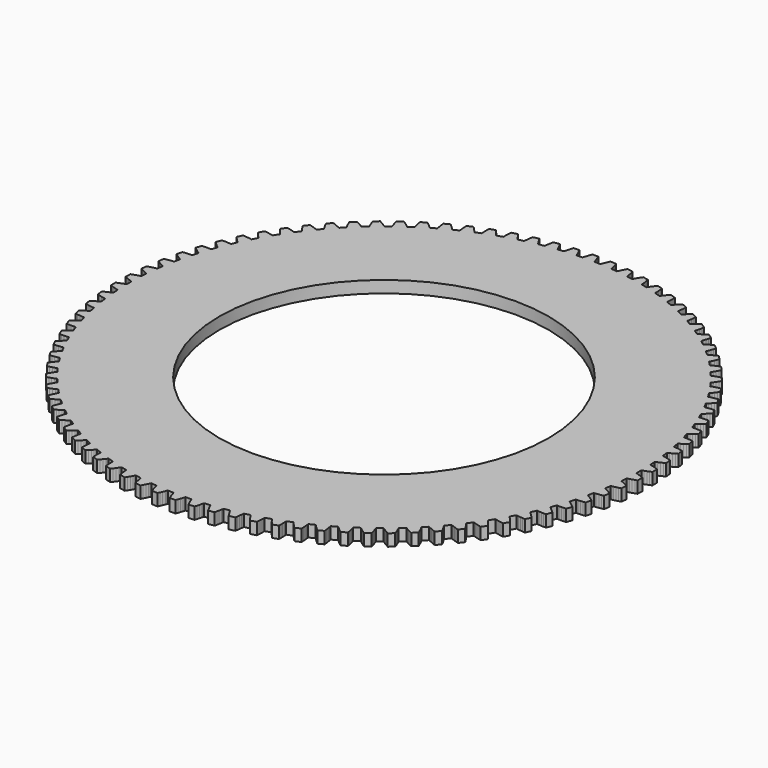
from build123d import *

# Parameters (mm, degrees)
F0_R     = 125
F1_DEPTH = 9


with BuildPart() as f1:
    # F0 (on Top) → F1 (new body)
    with BuildSketch(Plane.XY):
        Polygon((83.623727, 84.245683), (83.630127, 88.804583), (84.041127, 88.937583), (84.452027, 89.073883), (85.273427, 89.356283), (86.914527, 89.958683), (88.553027, 90.609183), (90.188527, 91.305483), (90.041027, 95.706583), (88.362527, 96.291783), (86.684127, 96.831083), (85.006427, 97.322283), (84.167927, 97.548983), (83.748827, 97.657483), (83.329827, 97.762583), (83.018127, 102.310883), (83.418927, 102.472183), (83.819327, 102.636783), (84.619027, 102.975783), (86.214027, 103.691283), (87.803127, 104.454383), (89.386127, 105.263083), (88.931927, 109.643283), (87.216727, 110.109983), (85.504827, 110.530783), (83.796927, 110.903783), (82.944627, 111.071483), (82.519027, 111.150483), (82.093727, 111.226083), (81.465527, 115.741483), (81.854027, 115.930383), (82.242027, 116.122583), (83.016127, 116.516483), (84.557327, 117.341483), (86.089327, 118.213683), (87.612027, 119.130783), (86.853427, 123.468583), (85.109827, 123.814483), (83.372727, 124.114883), (81.643027, 124.367783), (80.781127, 124.475683), (80.351027, 124.524783), (79.921427, 124.570583), (78.979827, 129.031183), (79.354227, 129.246683), (79.727827, 129.465383), (80.472527, 129.912383), (81.952527, 130.842883), (83.419927, 131.819783), (84.874927, 132.840883), (83.815627, 137.115183), (82.052127, 137.338683), (80.298327, 137.517183), (78.555127, 137.648783), (77.687827, 137.696283), (77.255327, 137.715283), (76.823627, 137.730983), (75.573127, 142.114983), (75.931527, 142.356183), (76.289027, 142.600383), (77.000727, 143.098283), (78.412227, 144.129683), (79.807927, 145.206583), (81.188127, 146.326783), (79.833227, 150.516783), (78.058427, 150.616583), (76.296427, 150.672383), (74.548327, 150.682083), (73.679827, 150.668883), (73.247027, 150.657683), (72.815327, 150.643283), (71.262027, 154.929383), (71.602827, 155.194883), (71.942327, 155.463583), (72.617627, 156.009783), (73.953627, 157.137183), (75.270827, 158.308883), (76.569627, 159.522583), (74.925727, 163.607783), (73.148227, 163.583683), (71.386627, 163.516383), (69.642127, 163.404083), (68.776627, 163.330383), (68.345727, 163.288983), (67.916027, 163.244483), (66.067627, 167.411783), (66.389027, 167.700483), (66.708927, 167.992083), (67.344427, 168.584183), (68.598627, 169.801983), (69.830927, 171.062683), (71.041827, 172.363983), (69.116927, 176.324683), (67.345527, 176.176583), (65.592927, 175.986583), (63.860427, 175.752883), (63.002227, 175.618983), (62.575227, 175.547583), (62.149727, 175.473283), (60.015027, 179.501483), (60.315527, 179.811883), (60.614327, 180.125083), (61.207027, 180.760083), (62.373227, 182.062383), (63.514527, 183.405983), (64.631727, 184.788583), (62.435227, 188.605283), (60.678427, 188.333983), (58.943427, 188.022183), (57.231427, 187.668283), (56.384627, 187.474783), (55.963627, 187.373883), (55.544327, 187.269983), (53.133927, 191.139483), (53.412027, 191.470083), (53.688227, 191.803383), (54.235227, 192.478183), (55.307627, 193.858683), (56.352527, 195.278583), (57.370527, 196.735783), (54.913127, 200.389983), (53.179627, 199.996783), (51.470527, 199.564683), (49.787427, 199.092183), (48.956127, 198.840183), (48.543227, 198.710083), (48.132227, 198.577183), (45.457727, 202.269183), (45.712127, 202.618283), (45.964427, 202.970083), (46.462927, 203.681383), (47.436527, 205.133383), (48.379727, 206.622683), (49.293627, 208.147283), (46.587327, 211.621183), (44.885427, 211.108083), (43.210627, 210.557783), (41.564627, 209.969083), (40.753027, 209.659583), (40.350127, 209.501083), (39.949327, 209.339883), (37.023827, 212.836183), (37.253227, 213.202283), (37.480427, 213.570883), (37.928127, 214.315183), (38.798027, 215.831483), (39.635027, 217.382983), (40.440327, 218.967683), (37.498327, 222.244283), (35.836427, 221.613683), (34.204027, 220.947983), (32.603127, 220.245783), (31.815027, 219.880483), (31.424227, 219.694283), (31.035727, 219.505483), (27.873427, 222.789283), (28.076727, 223.170383), (28.277627, 223.553883), (28.672327, 224.327683), (29.434327, 225.900983), (30.161127, 227.507083), (30.853927, 229.144083), (27.690527, 232.207483), (26.076527, 231.462483), (24.494627, 230.684583), (22.946527, 229.872383), (22.185927, 229.453083), (21.809027, 229.239983), (21.434627, 229.024483), (18.051027, 232.079783), (18.227227, 232.474183), (18.400827, 232.870683), (18.740627, 233.670083), (19.391027, 235.292783), (20.004027, 236.945683), (20.580927, 238.626983), (17.211527, 241.462283), (15.653527, 240.606483), (14.129727, 239.720083), (12.642027, 238.801983), (11.912527, 238.330583), (11.551427, 238.091683), (11.192927, 237.850683), (7.604427, 240.662383), (7.752627, 241.068183), (7.898227, 241.475883), (8.181427, 242.296983), (8.717027, 243.961083), (9.213227, 245.652683), (9.671427, 247.370183), (6.112427, 249.963583), (4.617927, 249.001183), (3.159727, 248.010583), (1.739727, 246.990983), (1.044827, 246.469783), (0.701327, 246.206283), (0.360527, 245.940883), (-3.415473, 248.495483), (-3.295873, 248.910583), (-3.179073, 249.327483), (-2.953873, 250.166283), (-2.535573, 251.863683), (-2.158673, 253.585783), (-1.821273, 255.331083), (-5.552573, 257.669883), (-6.976273, 256.605583), (-8.361873, 255.515683), (-9.707273, 254.399483), (-10.364173, 253.831083), (-10.688473, 253.544383), (-11.009873, 253.255783), (-14.954873, 255.540683), (-14.864473, 255.963183), (-14.777073, 256.387183), (-14.610873, 257.239683), (-14.312073, 258.962183), (-14.056173, 260.706383), (-13.841473, 262.470883), (-17.726673, 264.543683), (-19.072773, 263.382683), (-20.378973, 262.198783), (-21.643173, 260.991483), (-22.258773, 260.378683), (-22.562273, 260.069983), (-22.862873, 259.759683), (-26.957573, 261.763883), (-26.896873, 262.191583), (-26.839273, 262.620683), (-26.732973, 263.482683), (-26.555073, 265.221783), (-26.421473, 266.979583), (-26.330273, 268.754883), (-30.350673, 270.551583), (-31.612473, 269.299483), (-32.832973, 268.027383), (-34.009873, 266.734783), (-34.581173, 266.080583), (-34.862473, 265.751383), (-35.140673, 265.420883), (-39.365173, 267.134583), (-39.334473, 267.565483), (-39.306973, 267.997583), (-39.261073, 268.864883), (-39.204873, 270.612183), (-39.194173, 272.374983), (-39.227073, 274.152283), (-43.363073, 275.664183), (-44.534373, 274.327183), (-45.663173, 272.972983), (-46.747073, 271.601483), (-47.271373, 270.908983), (-47.528973, 270.560983), (-47.783373, 270.211883), (-52.117173, 271.626683), (-52.116673, 272.058683), (-52.119273, 272.491683), (-52.134073, 273.360083), (-52.199873, 275.106983), (-52.312173, 276.866283), (-52.468973, 278.636983), (-56.700273, 279.856683), (-57.775573, 278.441183), (-58.807073, 277.011583), (-59.792673, 275.567783), (-60.267373, 274.840383), (-60.500073, 274.475283), (-60.729573, 274.109283), (-65.151473, 275.218383), (-65.181073, 275.649383), (-65.213973, 276.080983), (-65.289273, 276.946383), (-65.476773, 278.684383), (-65.711473, 280.431583), (-65.991473, 282.186983), (-70.297573, 283.108583), (-71.271473, 281.621483), (-72.200773, 280.123483), (-73.083173, 278.614383), (-73.506073, 277.855683), (-73.712673, 277.475283), (-73.916073, 277.094183), (-78.404573, 277.892083), (-78.464173, 278.319883), (-78.527073, 278.748283), (-78.662573, 279.606183), (-78.970873, 281.326983), (-79.326873, 283.053483), (-79.728573, 284.785083), (-84.088573, 285.404083), (-84.956273, 283.852683), (-85.778873, 282.293483), (-86.553873, 280.726483), (-86.922773, 279.940183), (-87.102373, 279.546283), (-87.278673, 279.151883), (-91.811973, 279.634683), (-91.901173, 280.057383), (-91.993873, 280.480283), (-92.188773, 281.326683), (-92.616373, 283.021783), (-93.092073, 284.719283), (-93.613573, 286.418583), (-98.005973, 286.731983), (-98.763473, 285.123783), (-99.475173, 283.510983), (-100.139073, 281.893783), (-100.452173, 281.083583), (-100.603873, 280.678183), (-100.752273, 280.272483), (-105.308173, 280.437883), (-105.426673, 280.853283), (-105.548573, 281.268683), (-105.802173, 282.099483), (-106.346973, 283.760583), (-106.939773, 285.420783), (-107.578573, 287.079583), (-111.982273, 287.085783), (-112.625673, 285.428683), (-113.223173, 283.770183), (-113.772573, 282.110583), (-114.028473, 281.280583), (-114.151473, 280.865483), (-114.271273, 280.450383), (-118.827573, 280.297683), (-118.974773, 280.703783), (-119.125373, 281.109683), (-119.436273, 281.920783), (-120.095573, 283.539783), (-120.802773, 285.154583), (-121.555773, 286.764783), (-125.949073, 286.463783), (-126.475373, 284.765883), (-126.955773, 283.069683), (-127.388073, 281.375883), (-127.585373, 280.529983), (-127.679173, 280.107383), (-127.769673, 279.684883), (-132.304173, 279.214683), (-132.479473, 279.609583), (-132.657973, 280.003983), (-133.024673, 280.791383), (-133.795273, 282.360483), (-134.613473, 283.921983), (-135.476873, 285.475783), (-139.838573, 284.869083), (-140.245073, 283.138583), (-140.605973, 281.413083), (-140.919073, 279.693183), (-141.056973, 278.835583), (-141.120973, 278.407383), (-141.181773, 277.979683), (-145.672473, 277.194383), (-145.874873, 277.575983), (-146.080473, 277.956983), (-146.501173, 278.716883), (-147.379373, 280.228483), (-148.304473, 281.729083), (-149.274273, 283.218883), (-153.582873, 282.309283), (-153.867773, 280.554683), (-154.107373, 278.808183), (-154.299773, 277.070683), (-154.377473, 276.205483), (-154.411473, 275.773983), (-154.442273, 275.343083), (-158.867273, 274.246383), (-159.095773, 274.612983), (-159.327473, 274.978683), (-159.800173, 275.707383), (-160.781673, 277.153983), (-161.809173, 278.586483), (-162.880473, 280.004883), (-167.115273, 278.797083), (-167.276973, 277.026883), (-167.394173, 275.267883), (-167.464873, 273.521083), (-167.482073, 272.652683), (-167.485973, 272.219783), (-167.486573, 271.787783), (-171.824273, 270.385083), (-172.077773, 270.734883), (-172.334373, 271.083583), (-172.856773, 271.777483), (-173.936873, 273.152083), (-175.061773, 274.509383), (-176.229473, 275.849683), (-180.369573, 274.349383), (-180.407473, 272.572183), (-180.401673, 270.809283), (-180.350373, 269.061883), (-180.306973, 268.194383), (-180.280573, 267.762283), (-180.251073, 267.331283), (-184.480373, 265.629383), (-184.757673, 265.960683), (-185.037973, 266.290583), (-185.607473, 266.946483), (-186.780873, 268.242383), (-187.997673, 269.517883), (-189.255973, 270.773483), (-193.281373, 268.987983), (-193.195273, 267.212483), (-193.066473, 265.454283), (-192.893473, 263.714683), (-192.789573, 262.852383), (-192.733173, 262.423183), (-192.673673, 261.995283), (-196.773973, 260.002483), (-197.073673, 260.313583), (-197.376273, 260.623183), (-197.990173, 261.237683), (-199.251073, 262.448583), (-200.553973, 263.636083), (-201.896773, 264.800883), (-205.787773, 262.738883), (-205.577973, 260.973783), (-205.326873, 259.228883), (-205.032873, 257.505583), (-204.869173, 256.652583), (-204.782873, 256.228383), (-204.693773, 255.805683), (-208.644973, 253.531683), (-208.965673, 253.821183), (-209.289173, 254.108883), (-209.944473, 254.679083), (-211.286673, 255.799083), (-212.669273, 256.892783), (-214.090073, 257.961083), (-217.827773, 255.632683), (-217.495373, 253.886483), (-217.123173, 252.163383), (-216.709673, 250.464783), (-216.486773, 249.625283), (-216.371173, 249.208083), (-216.252773, 248.792583), (-220.035773, 246.248583), (-220.375873, 246.514983), (-220.718673, 246.779483), (-221.412073, 247.302483), (-222.829173, 248.326183), (-224.284673, 249.320783), (-225.776573, 250.287383), (-229.342773, 247.703883), (-228.889273, 245.985183), (-228.397873, 244.292183), (-227.866873, 242.626583), (-227.585973, 241.804683), (-227.441573, 241.396583), (-227.294473, 240.990383), (-230.890773, 238.188683), (-231.248573, 238.430683), (-231.608973, 238.670583), (-232.337273, 239.143983), (-233.822273, 240.066283), (-235.343673, 240.956983), (-236.899273, 241.817083), (-240.276573, 238.991183), (-239.704373, 237.308283), (-239.095973, 235.653683), (-238.450073, 234.029183), (-238.112573, 233.228883), (-237.940073, 232.831883), (-237.764973, 232.436883), (-241.157073, 229.391183), (-241.530973, 229.607683), (-241.907173, 229.821783), (-242.666673, 230.243283), (-244.212473, 231.059683), (-245.792173, 231.842083), (-247.404073, 232.591583), (-250.575973, 229.537083), (-249.887773, 227.898083), (-249.165473, 226.289983), (-248.407873, 224.714483), (-248.015273, 223.939683), (-247.815473, 223.555683), (-247.613273, 223.173883), (-250.784673, 219.898983), (-251.172773, 220.088783), (-251.562973, 220.276183), (-252.350073, 220.643683), (-253.949073, 221.350283), (-255.579473, 222.020583), (-257.239673, 222.655883), (-260.190873, 219.387483), (-259.389973, 217.800483), (-258.557273, 216.246683), (-257.691573, 214.727883), (-257.245973, 213.982383), (-257.019873, 213.613183), (-256.791473, 213.246483), (-259.726773, 209.758283), (-260.127073, 209.920583), (-260.529473, 210.080283), (-261.340173, 210.391983), (-262.984573, 210.985383), (-264.657873, 211.540283), (-266.358273, 212.058183), (-269.074273, 208.591883), (-268.164673, 207.064683), (-267.225573, 205.572683), (-266.256073, 204.117983), (-265.759473, 203.405383), (-265.508173, 203.052883), (-265.254773, 202.702983), (-267.939573, 199.018483), (-268.350273, 199.152483), (-268.762873, 199.283783), (-269.593373, 199.538183), (-271.275073, 200.015383), (-272.982973, 200.452183), (-274.715473, 200.850183), (-277.182973, 197.202883), (-276.169073, 195.742883), (-275.128173, 194.320083), (-274.059573, 192.936583), (-273.514573, 192.260283), (-273.239273, 191.926183), (-272.962073, 191.594783), (-275.383273, 187.731983), (-275.802273, 187.837083), (-276.222973, 187.939183), (-277.069273, 188.134983), (-278.780173, 188.493783), (-280.514373, 188.810383), (-282.270373, 189.086583), (-284.477573, 185.276083), (-283.364173, 183.890283), (-282.226673, 182.543583), (-281.064073, 181.237983), (-280.473173, 180.601383), (-280.175273, 180.287283), (-279.875673, 179.976083), (-282.021573, 175.953783), (-282.446873, 176.029383), (-282.873673, 176.101883), (-283.731473, 176.238183), (-285.463273, 176.476683), (-287.215373, 176.671583), (-288.986373, 176.824683), (-290.922273, 172.869383), (-289.715073, 171.564683), (-288.486273, 170.300583), (-287.235573, 169.079283), (-286.601673, 168.485383), (-286.282573, 168.192883), (-285.961973, 167.903283), (-287.821973, 163.741183), (-288.251573, 163.786883), (-288.682373, 163.829483), (-289.547673, 163.905583), (-291.291873, 164.022783), (-293.053273, 164.094983), (-294.830573, 164.124083), (-296.485973, 160.043383), (-295.190573, 158.826083), (-293.876673, 157.650783), (-292.543773, 156.519683), (-291.869973, 155.971483), (-291.531273, 155.701983), (-291.191273, 155.435483), (-292.756473, 151.153683), (-293.188173, 151.169283), (-293.620873, 151.181783), (-294.489373, 151.197383), (-296.237473, 151.192583), (-297.999673, 151.141683), (-299.774673, 151.046783), (-301.141373, 146.860583), (-299.764173, 145.736583), (-298.371473, 144.655783), (-296.962973, 143.620383), (-296.252573, 143.120583), (-295.895873, 142.875283), (-295.538073, 142.633183), (-296.800773, 138.252683), (-297.232573, 138.238183), (-297.665073, 138.220383), (-298.532573, 138.175383), (-300.276073, 138.048583), (-302.030373, 137.874983), (-303.794473, 137.656383), (-304.865773, 133.385083), (-303.413673, 132.359883), (-301.948873, 131.378883), (-300.471573, 130.444283), (-299.728073, 129.995283), (-299.355073, 129.775483), (-298.981273, 129.558883), (-299.935373, 125.100983), (-300.365073, 125.056383), (-300.795273, 125.008483), (-301.657473, 124.902983), (-303.387973, 124.654983), (-305.125873, 124.359383), (-306.870473, 124.018283), (-307.641173, 119.682683), (-306.121073, 118.761283), (-304.591473, 117.884783), (-303.052473, 117.055583), (-302.279473, 116.659483), (-301.892073, 116.466183), (-301.504073, 116.276183), (-302.144873, 111.762583), (-302.570373, 111.688083), (-302.996273, 111.610383), (-303.848973, 111.444983), (-305.557973, 111.076883), (-307.271073, 110.660783), (-308.987573, 110.198883), (-309.453973, 105.819983), (-307.873273, 105.006883), (-306.286273, 104.239283), (-304.693173, 103.519383), (-303.894473, 103.178183), (-303.494573, 103.012383), (-303.094273, 102.849983), (-303.418573, 98.302683), (-303.837873, 98.198683), (-304.257273, 98.091383), (-305.096373, 97.866983), (-306.775473, 97.380483), (-308.455373, 96.845883), (-310.135473, 96.265383), (-310.295273, 91.864683), (-308.661773, 91.163783), (-307.025073, 90.508783), (-305.385673, 89.901683), (-304.565073, 89.617083), (-304.154573, 89.479583), (-303.743873, 89.345483), (-303.750273, 84.786583), (-304.161273, 84.653583), (-304.572173, 84.517283), (-305.393573, 84.234883), (-307.034673, 83.632483), (-308.673173, 82.982083), (-310.308673, 82.285683), (-310.161173, 77.884583), (-308.482673, 77.299383), (-306.804273, 76.760083), (-305.126573, 76.268883), (-304.288073, 76.042183), (-303.868973, 75.933683), (-303.449973, 75.828583), (-303.138273, 71.280383), (-303.539073, 71.118983), (-303.939473, 70.954383), (-304.739173, 70.615383), (-306.334173, 69.899983), (-307.923373, 69.136783), (-309.506273, 68.328083), (-309.052073, 63.947983), (-307.336873, 63.481283), (-305.624973, 63.060383), (-303.917073, 62.687383), (-303.064873, 62.519683), (-302.639173, 62.440783), (-302.213873, 62.365083), (-301.585673, 57.849683), (-301.974173, 57.660783), (-302.362173, 57.468583), (-303.136273, 57.074683), (-304.677573, 56.249683), (-306.209573, 55.377583), (-307.732273, 54.460383), (-306.973573, 50.122583), (-305.229973, 49.776683), (-303.492973, 49.476283), (-301.763173, 49.223383), (-300.901273, 49.115483), (-300.471173, 49.066383), (-300.041573, 49.020583), (-299.099973, 44.560083), (-299.474373, 44.344483), (-299.847973, 44.125783), (-300.592673, 43.678783), (-302.072673, 42.748283), (-303.540073, 41.771383), (-304.995173, 40.750283), (-303.935773, 36.475983), (-302.172273, 36.252483), (-300.418473, 36.073983), (-298.675273, 35.942383), (-297.807973, 35.894883), (-297.375473, 35.875883), (-296.943773, 35.860183), (-295.693273, 31.476183), (-296.051773, 31.235083), (-296.409173, 30.990783), (-297.120873, 30.492883), (-298.532373, 29.461483), (-299.928073, 28.384583), (-301.308273, 27.264483), (-299.953373, 23.074483), (-298.178573, 22.974583), (-296.416573, 22.918783), (-294.668473, 22.909083), (-293.799973, 22.922283), (-293.367173, 22.933483), (-292.935473, 22.947883), (-291.382173, 18.661783), (-291.722973, 18.396283), (-292.062473, 18.127683), (-292.737773, 17.581383), (-294.073773, 16.453983), (-295.390973, 15.282383), (-296.689773, 14.068683), (-295.045873, 9.983383), (-293.268473, 10.007583), (-291.506873, 10.074783), (-289.762273, 10.187083), (-288.896873, 10.260783), (-288.465873, 10.302183), (-288.036173, 10.346683), (-286.187773, 6.179383), (-286.509173, 5.890683), (-286.829073, 5.599083), (-287.464573, 5.006983), (-288.718773, 3.789183), (-289.951073, 2.528483), (-291.161973, 1.227183), (-289.237073, -2.733417), (-287.465673, -2.585417), (-285.713073, -2.395317), (-283.980573, -2.161717), (-283.122373, -2.027817), (-282.695373, -1.956417), (-282.269873, -1.882017), (-280.135173, -5.910317), (-280.435673, -6.220617), (-280.734473, -6.533917), (-281.327173, -7.168917), (-282.493373, -8.471217), (-283.634673, -9.814817), (-284.751873, -11.197417), (-282.555373, -15.014117), (-280.798673, -14.742817), (-279.063573, -14.431017), (-277.351573, -14.077017), (-276.504773, -13.883617), (-276.083873, -13.782617), (-275.664473, -13.678817), (-273.254073, -17.548317), (-273.532173, -17.878917), (-273.808373, -18.212217), (-274.355373, -18.887017), (-275.427873, -20.267517), (-276.472673, -21.687417), (-277.490673, -23.144617), (-275.033273, -26.798817), (-273.299773, -26.405617), (-271.590673, -25.973517), (-269.907573, -25.501017), (-269.076373, -25.249017), (-268.663473, -25.118917), (-268.252373, -24.986017), (-265.577873, -28.677917), (-265.832273, -29.027117), (-266.084573, -29.378917), (-266.583073, -30.090217), (-267.556673, -31.542217), (-268.499873, -33.031517), (-269.413773, -34.556117), (-266.707473, -38.030017), (-265.005573, -37.516917), (-263.330773, -36.966617), (-261.684773, -36.377817), (-260.873173, -36.068417), (-260.470273, -35.909917), (-260.069573, -35.748617), (-257.143973, -39.245017), (-257.373373, -39.611117), (-257.600573, -39.979617), (-258.048273, -40.723917), (-258.918173, -42.240317), (-259.755273, -43.791817), (-260.560573, -45.376517), (-257.618473, -48.653117), (-255.956573, -48.022517), (-254.324173, -47.356817), (-252.723273, -46.654617), (-251.935173, -46.289317), (-251.544473, -46.103017), (-251.155873, -45.914317), (-247.993573, -49.198117), (-248.196873, -49.579217), (-248.397773, -49.962717), (-248.792473, -50.736417), (-249.554473, -52.309817), (-250.281273, -53.915917), (-250.974073, -55.552917), (-247.810673, -58.616317), (-246.196673, -57.871317), (-244.614773, -57.093317), (-243.066773, -56.281217), (-242.306073, -55.861817), (-241.929273, -55.648817), (-241.554773, -55.433317), (-238.171173, -58.488517), (-238.347373, -58.883017), (-238.520973, -59.279517), (-238.860773, -60.078917), (-239.511173, -61.701617), (-240.124173, -63.354417), (-240.701073, -65.035817), (-237.331673, -67.871117), (-235.773673, -67.015317), (-234.249873, -66.128917), (-232.762173, -65.210717), (-232.032673, -64.739417), (-231.671573, -64.500517), (-231.313073, -64.259517), (-227.724573, -67.071217), (-227.872773, -67.477017), (-228.018373, -67.884717), (-228.301573, -68.705817), (-228.837173, -70.369917), (-229.333373, -72.061517), (-229.791573, -73.779017), (-226.232673, -76.372417), (-224.738073, -75.410017), (-223.279873, -74.419417), (-221.859873, -73.399717), (-221.164973, -72.878617), (-220.821473, -72.615117), (-220.480673, -72.349717), (-216.704773, -74.904317), (-216.824373, -75.319417), (-216.941073, -75.736217), (-217.166273, -76.575117), (-217.584573, -78.272517), (-217.961573, -79.994617), (-218.298873, -81.739917), (-214.567573, -84.078717), (-213.143873, -83.014417), (-211.758273, -81.924517), (-210.412873, -80.808317), (-209.756073, -80.239917), (-209.431773, -79.953117), (-209.110273, -79.664617), (-205.165373, -81.949517), (-205.255673, -82.372017), (-205.343073, -82.796017), (-205.509273, -83.648517), (-205.808073, -85.371017), (-206.063973, -87.115117), (-206.278773, -88.879717), (-202.393473, -90.952517), (-201.047373, -89.791517), (-199.741173, -88.607617), (-198.476973, -87.400217), (-197.861373, -86.787517), (-197.557873, -86.478817), (-197.257273, -86.168517), (-193.162573, -88.172717), (-193.223273, -88.600417), (-193.280873, -89.029517), (-193.387173, -89.891517), (-193.565073, -91.630617), (-193.698773, -93.388417), (-193.789873, -95.163617), (-189.769473, -96.960417), (-188.507673, -95.708317), (-187.287273, -94.436217), (-186.110273, -93.143617), (-185.538973, -92.489317), (-185.257673, -92.160217), (-184.979473, -91.829717), (-180.754973, -93.543417), (-180.785673, -93.974317), (-180.813173, -94.406317), (-180.859073, -95.273717), (-180.915273, -97.021017), (-180.925973, -98.783817), (-180.893073, -100.561117), (-176.757073, -102.073017), (-175.585773, -100.736017), (-174.457073, -99.381817), (-173.373073, -98.010217), (-172.848773, -97.317817), (-172.591173, -96.969817), (-172.336773, -96.620717), (-168.002973, -98.035517), (-168.003473, -98.467517), (-168.000873, -98.900417), (-167.986173, -99.768917), (-167.920273, -101.515817), (-167.807973, -103.275117), (-167.651173, -105.045817), (-163.419873, -106.265517), (-162.344573, -104.850017), (-161.313073, -103.420417), (-160.327473, -101.976617), (-159.852773, -101.249217), (-159.620073, -100.884117), (-159.390573, -100.518117), (-154.968673, -101.627217), (-154.939073, -102.058217), (-154.906173, -102.489817), (-154.830973, -103.355217), (-154.643373, -105.093217), (-154.408673, -106.840417), (-154.128673, -108.595817), (-149.822573, -109.517417), (-148.848673, -108.030317), (-147.919473, -106.532317), (-147.036973, -105.023217), (-146.614073, -104.264517), (-146.407473, -103.884117), (-146.204073, -103.502917), (-141.715573, -104.300917), (-141.655973, -104.728717), (-141.593073, -105.157017), (-141.457673, -106.015017), (-141.149273, -107.735817), (-140.793273, -109.462317), (-140.391573, -111.193917), (-136.031673, -111.812917), (-135.163873, -110.261517), (-134.341373, -108.702317), (-133.566273, -107.135317), (-133.197373, -106.348917), (-133.017773, -105.955017), (-132.841473, -105.560717), (-128.308273, -106.043517), (-128.218973, -106.466217), (-128.126373, -106.889117), (-127.931373, -107.735517), (-127.503773, -109.430617), (-127.028173, -111.128117), (-126.506573, -112.827417), (-122.114173, -113.140717), (-121.356673, -111.532617), (-120.644973, -109.919817), (-119.981073, -108.302617), (-119.667973, -107.492417), (-119.516273, -107.087017), (-119.367873, -106.681217), (-114.811973, -106.846717), (-114.693473, -107.262117), (-114.571573, -107.677517), (-114.317973, -108.508317), (-113.773273, -110.169417), (-113.180373, -111.829617), (-112.541573, -113.488417), (-108.137973, -113.494617), (-107.494473, -111.837517), (-106.896973, -110.179017), (-106.347573, -108.519417), (-106.091673, -107.689417), (-105.968673, -107.274317), (-105.848973, -106.859217), (-101.292573, -106.706517), (-101.145373, -107.112617), (-100.994773, -107.518517), (-100.683973, -108.329617), (-100.024573, -109.948617), (-99.317373, -111.563417), (-98.564373, -113.173617), (-94.171073, -112.872617), (-93.644773, -111.174717), (-93.164473, -109.478517), (-92.732073, -107.784717), (-92.534773, -106.938817), (-92.440973, -106.516217), (-92.350473, -106.093717), (-87.815973, -105.623517), (-87.640773, -106.018417), (-87.462273, -106.412817), (-87.095573, -107.200217), (-86.324873, -108.769317), (-85.506673, -110.330817), (-84.643273, -111.884617), (-80.281673, -111.277817), (-79.875073, -109.547417), (-79.514173, -107.821817), (-79.201073, -106.101917), (-79.063273, -105.244417), (-78.999173, -104.816217), (-78.938373, -104.388517), (-74.447673, -103.603117), (-74.245373, -103.984817), (-74.039773, -104.365817), (-73.618973, -105.125717), (-72.740773, -106.637217), (-71.815673, -108.137917), (-70.845973, -109.627617), (-66.537273, -108.718117), (-66.252373, -106.963517), (-66.012773, -105.217017), (-65.820373, -103.479417), (-65.742673, -102.614317), (-65.708673, -102.182717), (-65.677873, -101.751817), (-61.252873, -100.655117), (-61.024373, -101.021817), (-60.792773, -101.387517), (-60.320073, -102.116217), (-59.338473, -103.562817), (-58.310973, -104.995217), (-57.239673, -106.413717), (-53.004973, -105.205817), (-52.843173, -103.435617), (-52.725973, -101.676717), (-52.655273, -99.929917), (-52.638073, -99.061517), (-52.634273, -98.628617), (-52.633573, -98.196617), (-48.295873, -96.793917), (-48.042373, -97.143717), (-47.785773, -97.492417), (-47.263373, -98.186317), (-46.183273, -99.560917), (-45.058373, -100.918217), (-43.890773, -102.258517), (-39.750573, -100.758217), (-39.712673, -98.981017), (-39.718473, -97.218117), (-39.769773, -95.470717), (-39.813273, -94.603217), (-39.839573, -94.171117), (-39.869073, -93.740117), (-35.639773, -92.038217), (-35.362473, -92.369517), (-35.082173, -92.699417), (-34.512673, -93.355217), (-33.339273, -94.651117), (-32.122473, -95.926717), (-30.864173, -97.182217), (-26.838773, -95.396817), (-26.924973, -93.621317), (-27.053673, -91.863117), (-27.226773, -90.123517), (-27.330573, -89.261217), (-27.387073, -88.831917), (-27.446473, -88.404117), (-23.346173, -86.411317), (-23.046473, -86.722417), (-22.743873, -87.032017), (-22.129973, -87.646517), (-20.869173, -88.857417), (-19.566273, -90.044917), (-18.223473, -91.209717), (-14.332373, -89.147717), (-14.542173, -87.382617), (-14.793273, -85.637717), (-15.087273, -83.914417), (-15.251073, -83.061417), (-15.337273, -82.637117), (-15.426473, -82.214417), (-11.475173, -79.940517), (-11.154473, -80.230017), (-10.830973, -80.517717), (-10.175673, -81.087917), (-8.833473, -82.207917), (-7.450873, -83.301617), (-6.030073, -84.369817), (-2.292373, -82.041517), (-2.624773, -80.295317), (-2.996973, -78.572117), (-3.410473, -76.873617), (-3.633373, -76.034117), (-3.748973, -75.616917), (-3.867373, -75.201417), (-0.084373, -72.657417), (0.255727, -72.923817), (0.598527, -73.188217), (1.291927, -73.711317), (2.709027, -74.735017), (4.164527, -75.729617), (5.656327, -76.696117), (9.222627, -74.112717), (8.769127, -72.394017), (8.277727, -70.701017), (7.746727, -69.035417), (7.465827, -68.213517), (7.321427, -67.805417), (7.174227, -67.399217), (10.770627, -64.597517), (11.128427, -64.839517), (11.488827, -65.079417), (12.217027, -65.552817), (13.702127, -66.475117), (15.223427, -67.365817), (16.779127, -68.225917), (20.156427, -65.400017), (19.584227, -63.717117), (18.975827, -62.062517), (18.329927, -60.438017), (17.992427, -59.637717), (17.819827, -59.240617), (17.644727, -58.845717), (21.036927, -55.800017), (21.410827, -56.016417), (21.787027, -56.230617), (22.546527, -56.652117), (24.092327, -57.468517), (25.672027, -58.250917), (27.283827, -59.000417), (30.455827, -55.945817), (29.767627, -54.306917), (29.045327, -52.698817), (28.287727, -51.123317), (27.895127, -50.348517), (27.695327, -49.964517), (27.493127, -49.582717), (30.664527, -46.307817), (31.052627, -46.497617), (31.442827, -46.685017), (32.229927, -47.052517), (33.828827, -47.759117), (35.459327, -48.429417), (37.119527, -49.064617), (40.070727, -45.796217), (39.269827, -44.209317), (38.437127, -42.655517), (37.571427, -41.136717), (37.125827, -40.391217), (36.899627, -40.022017), (36.671327, -39.655317), (39.606527, -36.167117), (40.006927, -36.329417), (40.409327, -36.489117), (41.220027, -36.800817), (42.864427, -37.394217), (44.537727, -37.949117), (46.238127, -38.467017), (48.954127, -35.000717), (48.044527, -33.473417), (47.105427, -31.981517), (46.135927, -30.526817), (45.639327, -29.814217), (45.388027, -29.461717), (45.134627, -29.111817), (47.819427, -25.427317), (48.230127, -25.561317), (48.642627, -25.692617), (49.473127, -25.946917), (51.154927, -26.424217), (52.862827, -26.861017), (54.595327, -27.259017), (57.062827, -23.611717), (56.048927, -22.151717), (55.008027, -20.728917), (53.939427, -19.345317), (53.394327, -18.669117), (53.119027, -18.335017), (52.841927, -18.003617), (55.263127, -14.140817), (55.682127, -14.245917), (56.102827, -14.348017), (56.949127, -14.543817), (58.660027, -14.902617), (60.394227, -15.219217), (62.150227, -15.495417), (64.357327, -11.684817), (63.244027, -10.299117), (62.106527, -8.952417), (60.943927, -7.646817), (60.353027, -7.010217), (60.055127, -6.696117), (59.755527, -6.384817), (61.901327, -2.362617), (62.326727, -2.438117), (62.753527, -2.510717), (63.611327, -2.647017), (65.343127, -2.885517), (67.095227, -3.080417), (68.866227, -3.233417), (70.802127, 0.721783), (69.594827, 2.026483), (68.366127, 3.290583), (67.115327, 4.511883), (66.481527, 5.105783), (66.162327, 5.398283), (65.841727, 5.687883), (67.701827, 9.849983), (68.131427, 9.804283), (68.562227, 9.761683), (69.427527, 9.685583), (71.171727, 9.568483), (72.933127, 9.496183), (74.710427, 9.467083), (76.365827, 13.547783), (75.070427, 14.765083), (73.756527, 15.940383), (72.423627, 17.071483), (71.749827, 17.619683), (71.411127, 17.889283), (71.071027, 18.155683), (72.636327, 22.437483), (73.068027, 22.421883), (73.500727, 22.409383), (74.369227, 22.393783), (76.117327, 22.398683), (77.879527, 22.449483), (79.654527, 22.544383), (81.021127, 26.730583), (79.644027, 27.854583), (78.251327, 28.935383), (76.842827, 29.970783), (76.132427, 30.470583), (75.775727, 30.715883), (75.417927, 30.957983), (76.680627, 35.338483), (77.112427, 35.353083), (77.544927, 35.370783), (78.412327, 35.415883), (80.155927, 35.542583), (81.910227, 35.716183), (83.674327, 35.934783), (84.745627, 40.206083), (83.293427, 41.231283), (81.828727, 42.212283), (80.351427, 43.146883), (79.607927, 43.595883), (79.234927, 43.815783), (78.861127, 44.032283), (79.815227, 48.490183), (80.244927, 48.534883), (80.675127, 48.582783), (81.537327, 48.688183), (83.267827, 48.936283), (85.005727, 49.231783), (86.750227, 49.572883), (87.521027, 53.908483), (86.000827, 54.829883), (84.471327, 55.706383), (82.932327, 56.535583), (82.159327, 56.931683), (81.771927, 57.124983), (81.383927, 57.314983), (82.024727, 61.828583), (82.450227, 61.903083), (82.876127, 61.980883), (83.728827, 62.146183), (85.437827, 62.514383), (87.150827, 62.930483), (88.867427, 63.392383), (89.333827, 67.771183), (87.753127, 68.584283), (86.166127, 69.351883), (84.573027, 70.071783), (83.774327, 70.412983), (83.374327, 70.578783), (82.974027, 70.741183), (83.298427, 75.288583), (83.717727, 75.392483), (84.137127, 75.499883), (84.976227, 75.724283), (86.655327, 76.210683), (88.335227, 76.745283), (90.015327, 77.325783), (90.175127, 81.726583), (88.541627, 82.427383), (86.904927, 83.082483), (85.265527, 83.689483), (84.444927, 83.974183), (84.034427, 84.111583), align=None)
        with Locations((-110.060073, 86.795583)):
            Circle(F0_R, mode=Mode.SUBTRACT)
    extrude(amount=F1_DEPTH)


solid = f1.part
